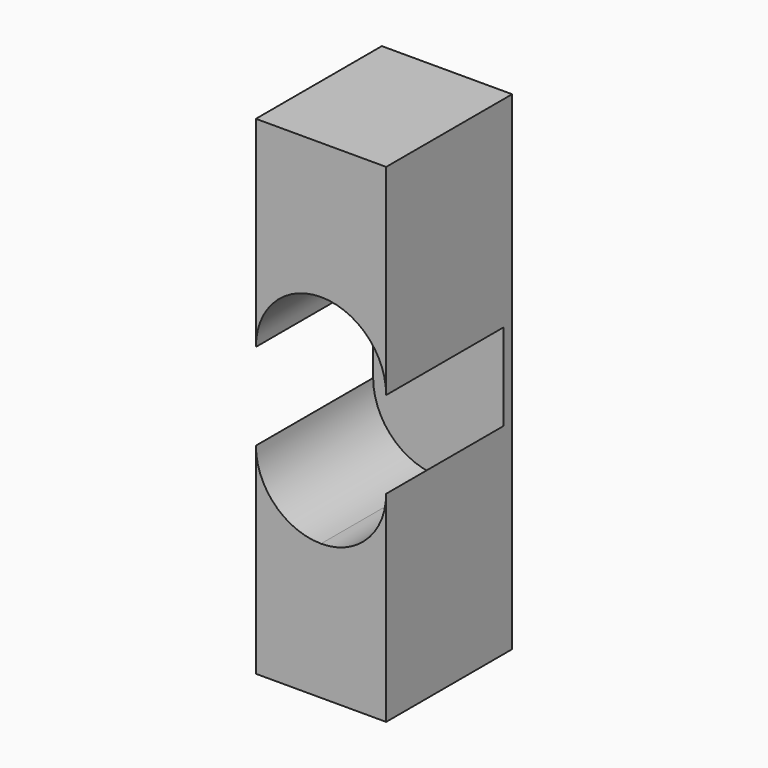
from build123d import *

# Parameters (mm, degrees)
F0_W     = 12
F0_H     = 45
F1_DEPTH = 14.5
F3_DEPTH = 13.5


with BuildPart() as f1:
    # F0 (on Front) → F1 (new body)
    with BuildSketch(Plane.XZ):
        with Locations((-33.3756405115, 57.3880812526)):
            Rectangle(F0_W, F0_H)
    extrude(amount=F1_DEPTH)

    # F2 (on face) → F3 (cut)
    with BuildSketch(Plane.XZ.offset(14.5)):
        with BuildLine():
            ThreePointArc((-37.8477764665, 57.3880812526), (-38.9806746653, 59.2471487139), (-39.3756405115, 61.3880812526))
            Line((-39.3756405115, 61.3880812526), (-39.3756405115, 53.3880812526))
            ThreePointArc((-39.3756405115, 53.3880812526), (-38.9806746653, 55.5290137912), (-37.8477764665, 57.3880812526))
        make_face()
        with BuildLine():
            Line((-27.3756405115, 53.3880812526), (-27.3756405115, 61.3880812526))
            ThreePointArc((-27.3756405115, 61.3880812526), (-27.7706063577, 59.2471487139), (-28.9035045565, 57.3880812526))
            ThreePointArc((-28.9035045565, 57.3880812526), (-27.7706063577, 55.5290137912), (-27.3756405115, 53.3880812526))
        make_face()
        with BuildLine():
            ThreePointArc((-27.3756405115, 61.3880812526), (-29.1329998244, 65.6307219397), (-33.3756405115, 67.3880812526))
            ThreePointArc((-33.3756405115, 67.3880812526), (-37.6182811986, 65.6307219397), (-39.3756405115, 61.3880812526))
            ThreePointArc((-39.3756405115, 61.3880812526), (-38.9806746653, 59.2471487139), (-37.8477764665, 57.3880812526))
            ThreePointArc((-37.8477764665, 57.3880812526), (-33.3756405115, 59.3880812526), (-28.9035045565, 57.3880812526))
            ThreePointArc((-28.9035045565, 57.3880812526), (-27.7706063577, 59.2471487139), (-27.3756405115, 61.3880812526))
        make_face()
        with BuildLine():
            ThreePointArc((-37.8477764665, 57.3880812526), (-38.9806746653, 55.5290137912), (-39.3756405115, 53.3880812526))
            ThreePointArc((-39.3756405115, 53.3880812526), (-37.6182811986, 49.1454405655), (-33.3756405115, 47.3880812526))
            ThreePointArc((-33.3756405115, 47.3880812526), (-29.1329998244, 49.1454405655), (-27.3756405115, 53.3880812526))
            ThreePointArc((-27.3756405115, 53.3880812526), (-27.7706063577, 55.5290137912), (-28.9035045565, 57.3880812526))
            ThreePointArc((-28.9035045565, 57.3880812526), (-33.3756405115, 55.3880812526), (-37.8477764665, 57.3880812526))
        make_face()
        with BuildLine():
            ThreePointArc((-28.9035045565, 57.3880812526), (-33.3756405115, 59.3880812526), (-37.8477764665, 57.3880812526))
            ThreePointArc((-37.8477764665, 57.3880812526), (-33.3756405115, 55.3880812526), (-28.9035045565, 57.3880812526))
        make_face()
    extrude(amount=-F3_DEPTH, mode=Mode.SUBTRACT)


solid = f1.part
